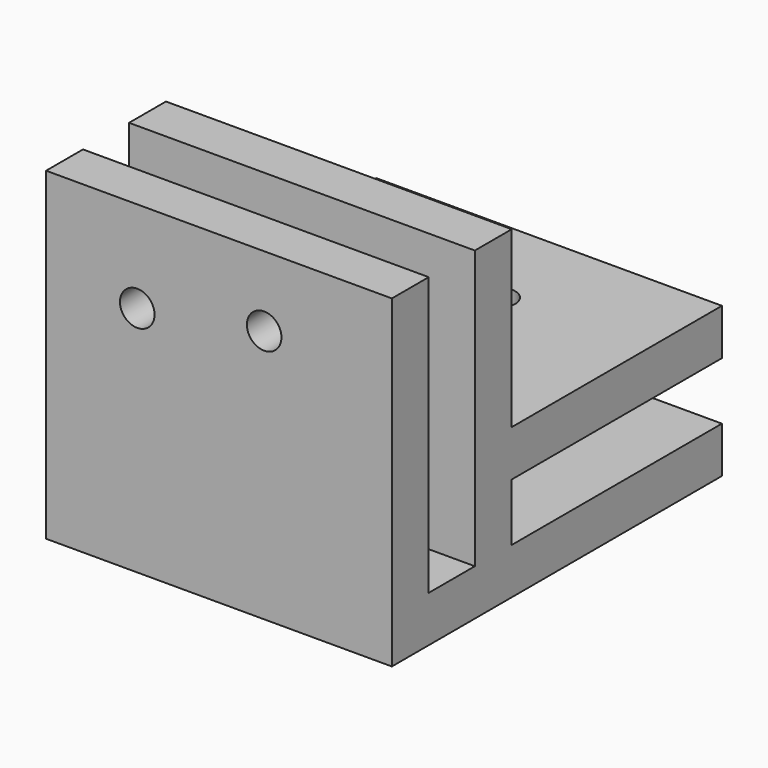
from build123d import *

# Parameters (mm, degrees)
F0_W     = 4
F0_H     = 24.11321
F0_W_2   = 22.79535
F0_H_2   = 4
F0_W_3   = 17.79535
F1_DEPTH = 30
F2_R     = 1.5
F3_DEPTH = 25
F4_R     = 1.5
F5_DEPTH = 25


with BuildPart() as f1:
    # F0 (on Right) → F1 (new body)
    with BuildSketch(Plane.YZ):
        with Locations((-14.226417, 12.056605)):
            Rectangle(F0_W, F0_H)
        with Locations((8.171258, 7)):
            Rectangle(F0_W_2, F0_H_2)
        with Locations((10.671258, -2)):
            Rectangle(F0_W_3, F0_H_2)
        Polygon((1.773583, -4), (1.773583, 0), (-3.226417, 0), (-7.226417, 0), (-12.226417, 0), (-16.226417, 0), (-16.226417, -4), align=None)
        Polygon((-7.226417, 0), (-3.226417, 0), (-3.226417, 5), (-3.226417, 9), (-3.226417, 24.11321), (-7.226417, 24.11321), align=None)
    extrude(amount=F1_DEPTH)

    # F2 (on face) → F3 (cut)
    with BuildSketch(Plane(origin=(0, -3.226417, 0), x_dir=(-1, 0, 0), z_dir=(0, 1, 0))):
        with Locations((-18.920988, 18.018588)):
            Circle(F2_R)
        with Locations((-7.910667, 16.17527)):
            Circle(F2_R)
    extrude(amount=-F3_DEPTH, mode=Mode.SUBTRACT)

    # F4 (on face) → F5 (cut)
    with BuildSketch(Plane.XY.offset(9)):
        with Locations((8.8035, 11.279188)):
            Circle(F4_R)
        with Locations((17.396833, 11.026443)):
            Circle(F4_R)
    extrude(amount=-F5_DEPTH, mode=Mode.SUBTRACT)


solid = f1.part
